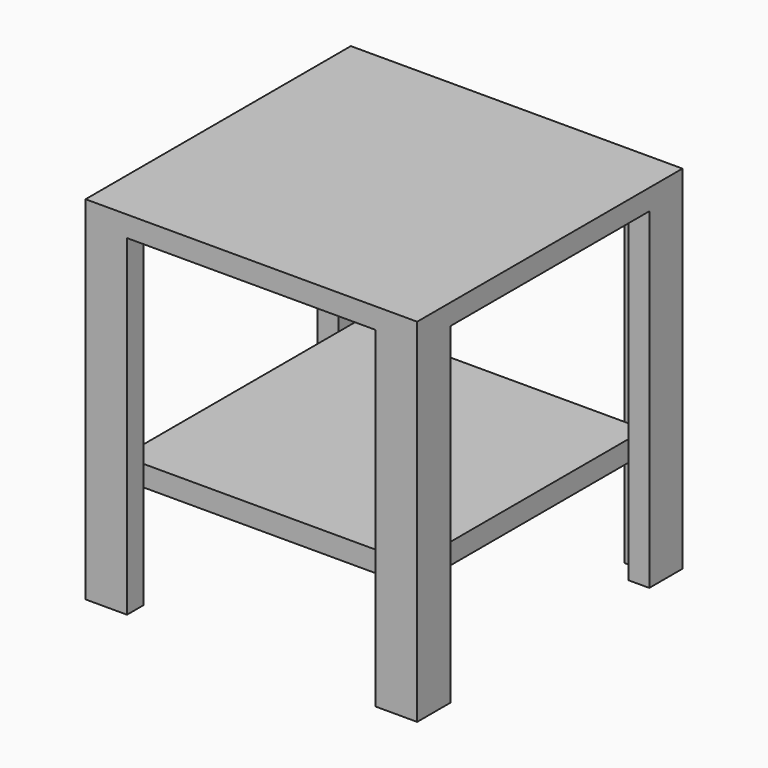
from build123d import *

# Parameters (mm, degrees)
F1_W     = 400
F1_H     = 400
F2_DEPTH = 25
F4_DEPTH = 400
F6_W     = 350
F6_H     = 350
F7_DEPTH = 25


with BuildPart() as f2:
    # F1 (on offset) → F2 (new body)
    with BuildSketch(Plane.XY.offset(150)):
        Rectangle(F1_W, F1_H)
    extrude(amount=-F2_DEPTH)

    # F3 (on face) → F4 (join)
    with BuildSketch(Plane(origin=(0, 0, 125), x_dir=(1, 0, 0), z_dir=(0, 0, -1))):
        Polygon((-200, 200), (-200, 150), (-175, 150), (-175, 175), (-150, 175), (-150, 200), align=None)
        Polygon((150, 175), (175, 175), (175, 150), (200, 150), (200, 200), (150, 200), align=None)
        Polygon((-150, -175), (-175, -175), (-175, -150), (-200, -150), (-200, -200), (-150, -200), align=None)
        Polygon((175, -150), (175, -175), (150, -175), (150, -200), (200, -200), (200, -150), align=None)
    extrude(amount=F4_DEPTH)

    # F6 (on offset) → F7 (join)
    with BuildSketch(Plane.XY.offset(-150)):
        Rectangle(F6_W, F6_H)
    extrude(amount=F7_DEPTH)


solid = f2.part
